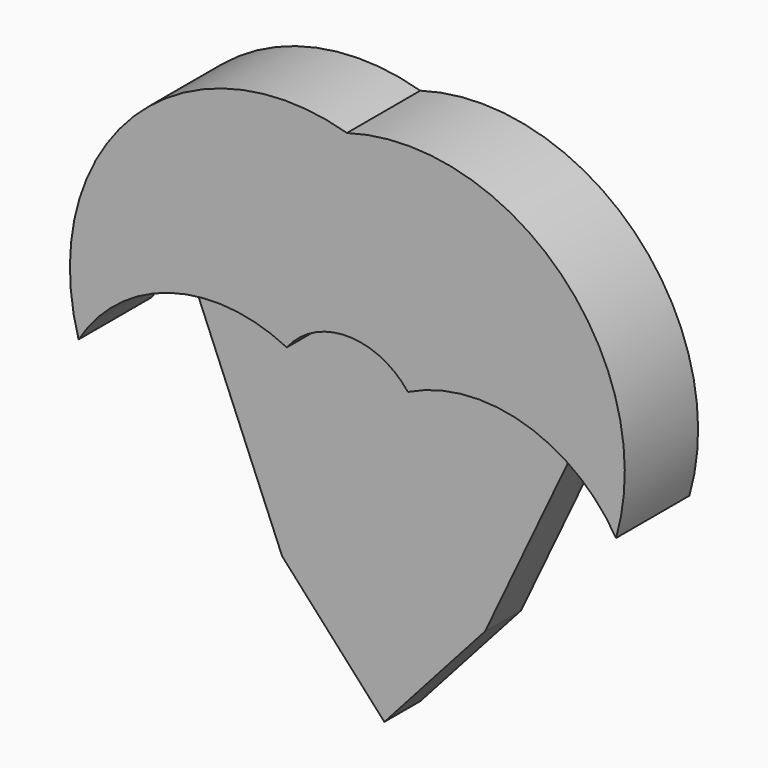
from build123d import *

# Parameters (mm, degrees)
F1_DEPTH = 25.908
F2_DEPTH = 12.7


with BuildPart() as f1:
    # F0 (on Front) → F1 (new body)
    with BuildSketch(Plane.XZ):
        with BuildLine():
            ThreePointArc((76.078311, 0), (60.586504, 60.586503), (0, 76.078303))
            ThreePointArc((0, 76.078303), (-60.428131, 60.468316), (-75.88172, 0))
            ThreePointArc((-75.88172, 0), (-66.794103, 10.818617), (-54.810586, 18.303441))
            ThreePointArc((-54.810586, 18.303441), (-35.786004, 21.875966), (-17.011248, 17.163621))
            ThreePointArc((-17.011248, 17.163621), (0.091962, 25.558459), (17.225309, 17.225304))
            ThreePointArc((17.225309, 17.225304), (37.337078, 21.900148), (57.435773, 17.169411))
            ThreePointArc((57.435773, 17.169411), (67.981444, 9.91416), (76.078311, 0))
        make_face()
    extrude(amount=F1_DEPTH)

    # F0 (on Front) → F2 (join)
    with BuildSketch(Plane.XZ):
        with BuildLine():
            ThreePointArc((76.078311, 0), (60.586504, 60.586503), (0, 76.078303))
            ThreePointArc((0, 76.078303), (-60.428131, 60.468316), (-75.88172, 0))
            ThreePointArc((-75.88172, 0), (-66.794103, 10.818617), (-54.810586, 18.303441))
            ThreePointArc((-54.810586, 18.303441), (-35.786004, 21.875966), (-17.011248, 17.163621))
            ThreePointArc((-17.011248, 17.163621), (0.091962, 25.558459), (17.225309, 17.225304))
            ThreePointArc((17.225309, 17.225304), (37.337078, 21.900148), (57.435773, 17.169411))
            ThreePointArc((57.435773, 17.169411), (67.981444, 9.91416), (76.078311, 0))
        make_face()
        with BuildLine():
            ThreePointArc((-17.011248, 17.163621), (-35.786004, 21.875966), (-54.810586, 18.303441))
            Line((-54.810586, 18.303441), (-28.897962, -44.034988))
            Line((-28.897962, -44.034988), (0.131057, 3.85879))
            Line((0.131057, 3.85879), (28.504791, -44.034988))
            Line((28.504791, -44.034988), (57.435773, 17.169411))
            ThreePointArc((57.435773, 17.169411), (37.337078, 21.900148), (17.225309, 17.225304))
            ThreePointArc((17.225309, 17.225304), (0.091962, 25.558459), (-17.011248, 17.163621))
        make_face()
        Polygon((0.131057, 3.85879), (-28.897962, -44.034988), (0, -75.88172), (28.504791, -44.034988), align=None)
    extrude(amount=F2_DEPTH)


solid = f1.part
